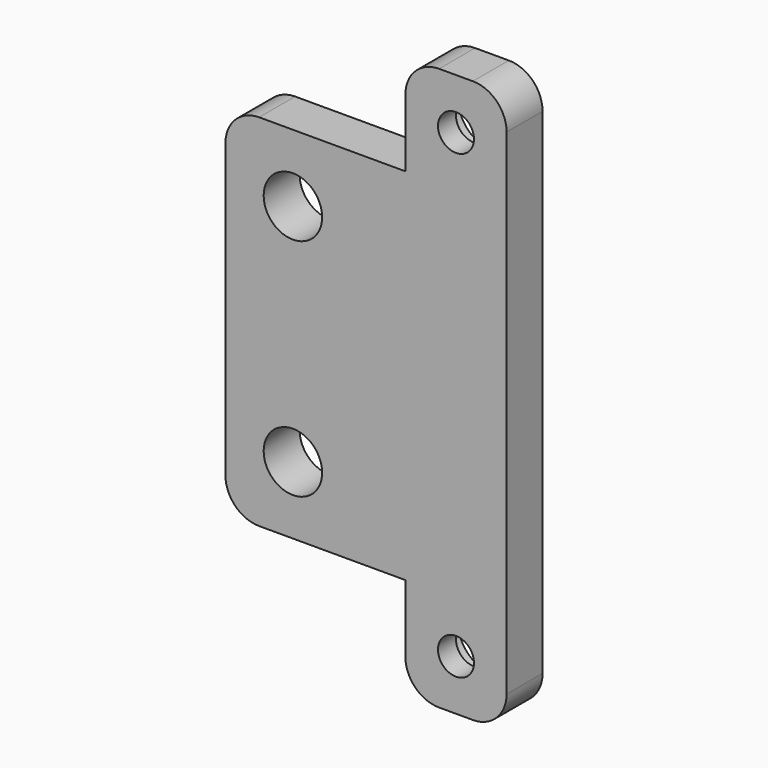
from build123d import *

# Parameters (mm, degrees)
F1_DEPTH       = 4
F2_D           = 3.2
F2_CBORE_D     = 6
F2_CBORE_DEPTH = 2
F3_D           = 5.2
F4_R           = 3


with BuildPart() as f1:
    # F0 (on Front) → F1 (new body)
    with BuildSketch(Plane.XZ):
        Polygon((0, -9), (-16, -9), (-16, -41), (0, -41), (0, -44), (0, -50), (9, -50), (9, 0), (0, 0), (0, -6), align=None)
        Polygon((0, -9), (-16, -9), (-16, -41), (0, -41), (0, -44), (0, -50), (9, -50), (9, 0), (0, 0), (0, -6), align=None)
        Polygon((0, -9), (-16, -9), (-16, -41), (0, -41), (0, -44), (0, -50), (9, -50), (9, 0), (0, 0), (0, -6), align=None)
    extrude(amount=F1_DEPTH)

    # F2 (through all)
    with Locations(Plane(origin=(0, 0, 0), x_dir=(1, 0, 0), z_dir=(0, 1, 0))):
        with Locations((4.5, 4.5), (4.5, 45.5)):
            CounterBoreHole(F2_D / 2, F2_CBORE_D / 2, F2_CBORE_DEPTH)

    # F3 (through all)
    with Locations(Plane(origin=(0, 0, 0), x_dir=(1, 0, 0), z_dir=(0, 1, 0))):
        with Locations((-10, 15), (-10, 35)):
            Hole(F3_D / 2)

    # F4
    f4_edges = [f1.edges().sort_by_distance(p)[0] for p in [
        (-16, -2, -9),
        (-16, -2, -41),
        (9, -2, 0),
        (0, -2, 0),
        (0, -2, -50),
        (9, -2, -50),
    ]]
    fillet(f4_edges, radius=F4_R)


solid = f1.part
